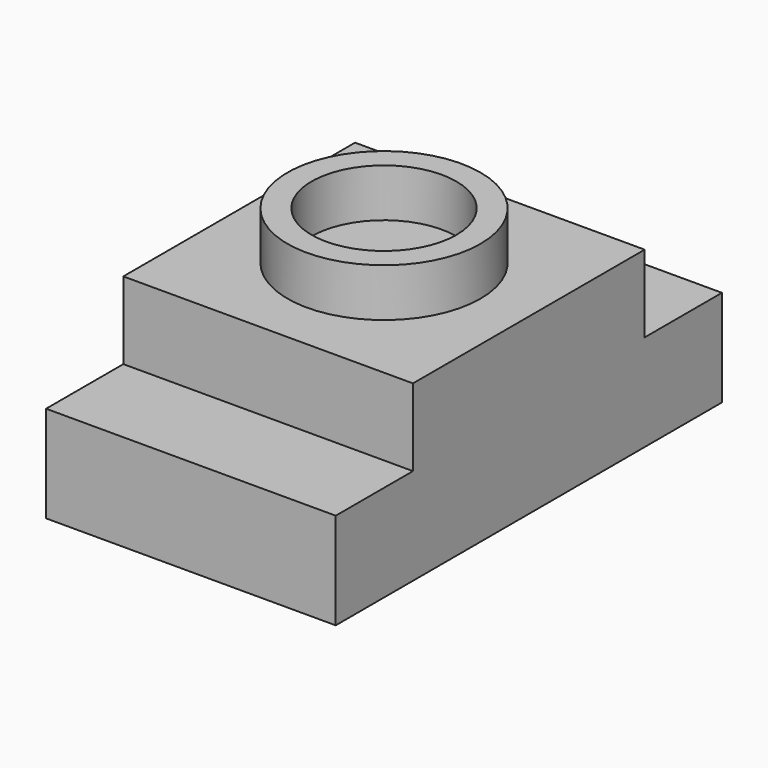
from build123d import *

# Parameters (mm, degrees)
F1_DEPTH = 38.1
F2_R     = 12.7
F2_R_2   = 9.525
F3_DEPTH = 6.35


with BuildPart() as f1:
    # F0 (on Right) → F1 (new body)
    with BuildSketch(Plane.YZ):
        Polygon((-31.75, 0), (0, 0), (31.75, 0), (31.75, 12.7), (19.05, 12.7), (19.05, 22.86), (-19.05, 22.86), (-19.05, 12.7), (-31.75, 12.7), align=None)
    extrude(amount=F1_DEPTH)

    # F2 (on face) → F3 (join)
    with BuildSketch(Plane.XY.offset(22.86)):
        with Locations((19.05, 0)):
            Circle(F2_R)
        with Locations((19.05, 0)):
            Circle(F2_R_2, mode=Mode.SUBTRACT)
    extrude(amount=F3_DEPTH)


solid = f1.part
